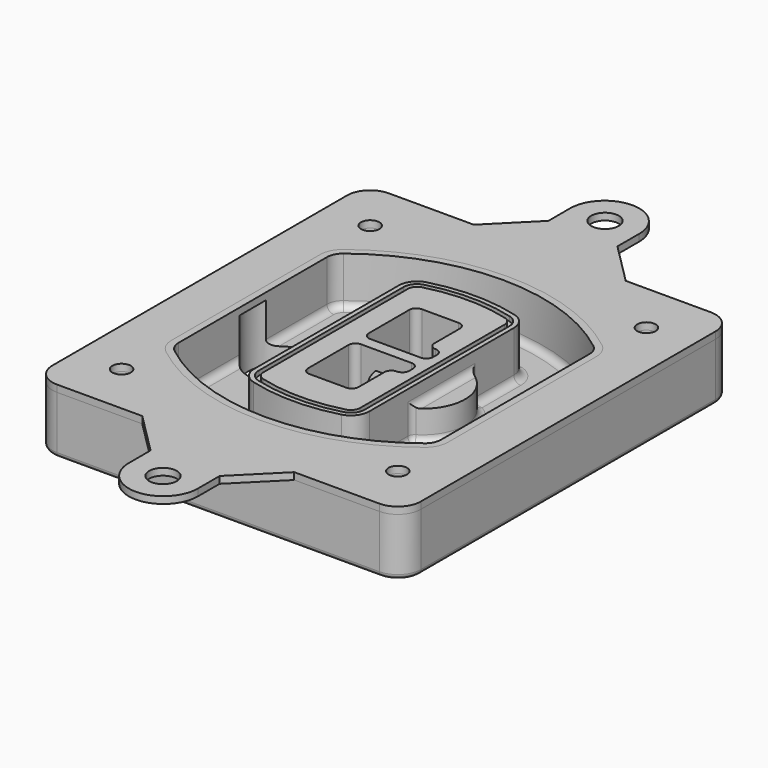
from build123d import *

# Parameters (mm, degrees)
F0_R      = 4
F1_DEPTH  = 25
F2_DEPTH  = 3
F3_DEPTH  = 18
F5_DEPTH  = 21
F6_DEPTH  = 2
F8_DEPTH  = 20
F9_DEPTH  = 16
F10_DEPTH = 25
F7_R      = 6
F7_R_2    = 4
F11_DEPTH = 6
F13_DEPTH = 9
F14_R     = 3
F15_R     = 2
F16_R     = 6
F16_R_2   = 4
F17_DEPTH = 3


with BuildPart() as f1:
    # F0 (on Top) → F1 (new body)
    with BuildSketch(Plane.XY):
        with BuildLine():
            ThreePointArc((-80, -80), (-77.0710678119, -87.0710678119), (-70, -90))
            Line((-70, -90), (70, -90))
            ThreePointArc((70, -90), (77.0710678119, -87.0710678119), (80, -80))
            Line((80, -80), (80, 80))
            ThreePointArc((80, 80), (77.0710678119, 87.0710678119), (70, 90))
            Line((70, 90), (-70, 90))
            ThreePointArc((-70, 90), (-77.0710678119, 87.0710678119), (-80, 80))
            Line((-80, 80), (-80, -80))
        make_face()
        with Locations((-60, -67.5)):
            Circle(F0_R, mode=Mode.SUBTRACT)
        with Locations((60, -67.5)):
            Circle(F0_R, mode=Mode.SUBTRACT)
        with Locations((-60, 67.5)):
            Circle(F0_R, mode=Mode.SUBTRACT)
        with BuildLine():
            ThreePointArc((-64, 40.2934422872), (-62.5820384798, 46.4328484224), (-58.6153846154, 51.3286200352))
            ThreePointArc((-58.6153846154, 51.3286200352), (0, 71.5), (58.6153846154, 51.3286200352))
            ThreePointArc((58.6153846154, 51.3286200352), (62.5820384798, 46.4328484224), (64, 40.2934422872))
            Line((64, 40.2934422872), (64, -40.2934422872))
            ThreePointArc((64, -40.2934422872), (62.5820384798, -46.4328484224), (58.6153846154, -51.3286200352))
            ThreePointArc((58.6153846154, -51.3286200352), (0, -71.5), (-58.6153846154, -51.3286200352))
            ThreePointArc((-58.6153846154, -51.3286200352), (-62.5820384798, -46.4328484224), (-64, -40.2934422872))
            Line((-64, -40.2934422872), (-64, 40.2934422872))
        make_face(mode=Mode.SUBTRACT)
        with Locations((60, 67.5)):
            Circle(F0_R, mode=Mode.SUBTRACT)
        with BuildLine():
            ThreePointArc((58.6153846154, 51.3286200352), (0, 71.5), (-58.6153846154, 51.3286200352))
            ThreePointArc((-58.6153846154, 51.3286200352), (-62.5820384798, 46.4328484224), (-64, 40.2934422872))
            Line((-64, 40.2934422872), (-64, -40.2934422872))
            ThreePointArc((-64, -40.2934422872), (-62.5820384798, -46.4328484224), (-58.6153846154, -51.3286200352))
            ThreePointArc((-58.6153846154, -51.3286200352), (0, -71.5), (58.6153846154, -51.3286200352))
            ThreePointArc((58.6153846154, -51.3286200352), (62.5820384798, -46.4328484224), (64, -40.2934422872))
            Line((64, -40.2934422872), (64, 40.2934422872))
            ThreePointArc((64, 40.2934422872), (62.5820384798, 46.4328484224), (58.6153846154, 51.3286200352))
        make_face()
        with BuildLine():
            Line((-60, -40.2934422872), (-60, 40.2934422872))
            ThreePointArc((-60, 40.2934422872), (-58.9871703427, 44.6787323838), (-56.1538461538, 48.1757121072))
            ThreePointArc((-56.1538461538, 48.1757121072), (0, 67.5), (56.1538461538, 48.1757121072))
            ThreePointArc((56.1538461538, 48.1757121072), (58.9871703427, 44.6787323838), (60, 40.2934422872))
            Line((60, 40.2934422872), (60, -40.2934422872))
            ThreePointArc((60, -40.2934422872), (58.9871703427, -44.6787323838), (56.1538461538, -48.1757121072))
            ThreePointArc((56.1538461538, -48.1757121072), (0, -67.5), (-56.1538461538, -48.1757121072))
            ThreePointArc((-56.1538461538, -48.1757121072), (-58.9871703427, -44.6787323838), (-60, -40.2934422872))
        make_face(mode=Mode.SUBTRACT)
        with BuildLine():
            ThreePointArc((-56.1538461538, 48.1757121072), (-58.9871703427, 44.6787323838), (-60, 40.2934422872))
            Line((-60, 40.2934422872), (-60, -40.2934422872))
            ThreePointArc((-60, -40.2934422872), (-58.9871703427, -44.6787323838), (-56.1538461538, -48.1757121072))
            ThreePointArc((-56.1538461538, -48.1757121072), (0, -67.5), (56.1538461538, -48.1757121072))
            ThreePointArc((56.1538461538, -48.1757121072), (58.9871703427, -44.6787323838), (60, -40.2934422872))
            Line((60, -40.2934422872), (60, 40.2934422872))
            ThreePointArc((60, 40.2934422872), (58.9871703427, 44.6787323838), (56.1538461538, 48.1757121072))
            ThreePointArc((56.1538461538, 48.1757121072), (0, 67.5), (-56.1538461538, 48.1757121072))
        make_face()
        with BuildLine():
            ThreePointArc((54.3076923077, 45.8110311612), (56.2910192399, 43.3631453548), (57, 40.2934422872))
            Line((57, 40.2934422872), (57, -40.2934422872))
            ThreePointArc((57, -40.2934422872), (56.2910192399, -43.3631453548), (54.3076923077, -45.8110311612))
            ThreePointArc((54.3076923077, -45.8110311612), (0, -64.5), (-54.3076923077, -45.8110311612))
            ThreePointArc((-54.3076923077, -45.8110311612), (-56.2910192399, -43.3631453548), (-57, -40.2934422872))
            Line((-57, -40.2934422872), (-57, 40.2934422872))
            ThreePointArc((-57, 40.2934422872), (-56.2910192399, 43.3631453548), (-54.3076923077, 45.8110311612))
            ThreePointArc((-54.3076923077, 45.8110311612), (0, 64.5), (54.3076923077, 45.8110311612))
        make_face(mode=Mode.SUBTRACT)
        with BuildLine():
            Line((57, -40.2934422872), (57, 40.2934422872))
            ThreePointArc((57, 40.2934422872), (56.2910192399, 43.3631453548), (54.3076923077, 45.8110311612))
            ThreePointArc((54.3076923077, 45.8110311612), (0, 64.5), (-54.3076923077, 45.8110311612))
            ThreePointArc((-54.3076923077, 45.8110311612), (-56.2910192399, 43.3631453548), (-57, 40.2934422872))
            Line((-57, 40.2934422872), (-57, -40.2934422872))
            ThreePointArc((-57, -40.2934422872), (-56.2910192399, -43.3631453548), (-54.3076923077, -45.8110311612))
            ThreePointArc((-54.3076923077, -45.8110311612), (0, -64.5), (54.3076923077, -45.8110311612))
            ThreePointArc((54.3076923077, -45.8110311612), (56.2910192399, -43.3631453548), (57, -40.2934422872))
        make_face()
    extrude(amount=-F1_DEPTH)

    # F0 (on Top) → F2 (join)
    with BuildSketch(Plane.XY):
        with BuildLine():
            ThreePointArc((-56.1538461538, 48.1757121072), (-58.9871703427, 44.6787323838), (-60, 40.2934422872))
            Line((-60, 40.2934422872), (-60, -40.2934422872))
            ThreePointArc((-60, -40.2934422872), (-58.9871703427, -44.6787323838), (-56.1538461538, -48.1757121072))
            ThreePointArc((-56.1538461538, -48.1757121072), (0, -67.5), (56.1538461538, -48.1757121072))
            ThreePointArc((56.1538461538, -48.1757121072), (58.9871703427, -44.6787323838), (60, -40.2934422872))
            Line((60, -40.2934422872), (60, 40.2934422872))
            ThreePointArc((60, 40.2934422872), (58.9871703427, 44.6787323838), (56.1538461538, 48.1757121072))
            ThreePointArc((56.1538461538, 48.1757121072), (0, 67.5), (-56.1538461538, 48.1757121072))
        make_face()
        with BuildLine():
            ThreePointArc((54.3076923077, 45.8110311612), (56.2910192399, 43.3631453548), (57, 40.2934422872))
            Line((57, 40.2934422872), (57, -40.2934422872))
            ThreePointArc((57, -40.2934422872), (56.2910192399, -43.3631453548), (54.3076923077, -45.8110311612))
            ThreePointArc((54.3076923077, -45.8110311612), (0, -64.5), (-54.3076923077, -45.8110311612))
            ThreePointArc((-54.3076923077, -45.8110311612), (-56.2910192399, -43.3631453548), (-57, -40.2934422872))
            Line((-57, -40.2934422872), (-57, 40.2934422872))
            ThreePointArc((-57, 40.2934422872), (-56.2910192399, 43.3631453548), (-54.3076923077, 45.8110311612))
            ThreePointArc((-54.3076923077, 45.8110311612), (0, 64.5), (54.3076923077, 45.8110311612))
        make_face(mode=Mode.SUBTRACT)
    extrude(amount=F2_DEPTH)

    # F0 (on Top) → F3 (cut)
    with BuildSketch(Plane.XY):
        with BuildLine():
            Line((57, -40.2934422872), (57, 40.2934422872))
            ThreePointArc((57, 40.2934422872), (56.2910192399, 43.3631453548), (54.3076923077, 45.8110311612))
            ThreePointArc((54.3076923077, 45.8110311612), (0, 64.5), (-54.3076923077, 45.8110311612))
            ThreePointArc((-54.3076923077, 45.8110311612), (-56.2910192399, 43.3631453548), (-57, 40.2934422872))
            Line((-57, 40.2934422872), (-57, -40.2934422872))
            ThreePointArc((-57, -40.2934422872), (-56.2910192399, -43.3631453548), (-54.3076923077, -45.8110311612))
            ThreePointArc((-54.3076923077, -45.8110311612), (0, -64.5), (54.3076923077, -45.8110311612))
            ThreePointArc((54.3076923077, -45.8110311612), (56.2910192399, -43.3631453548), (57, -40.2934422872))
        make_face()
    extrude(amount=-F3_DEPTH, mode=Mode.SUBTRACT)

    # F4 (on face) → F5 (join, through all)
    with BuildSketch(Plane.XY.offset(3)):
        with BuildLine():
            ThreePointArc((-25, -39.2465276821), (-23.3511545998, -44.1109737193), (-19.0842911877, -46.9702398883))
            ThreePointArc((-19.0842911877, -46.9702398883), (0, -49.5), (19.0842911877, -46.9702398883))
            ThreePointArc((19.0842911877, -46.9702398883), (23.3511545998, -44.1109737193), (25, -39.2465276821))
            Line((25, -39.2465276821), (25, 39.2465276821))
            ThreePointArc((25, 39.2465276821), (23.3511545998, 44.1109737193), (19.0842911877, 46.9702398883))
            ThreePointArc((19.0842911877, 46.9702398883), (0, 49.5), (-19.0842911877, 46.9702398883))
            ThreePointArc((-19.0842911877, 46.9702398883), (-23.3511545998, 44.1109737193), (-25, 39.2465276821))
            Line((-25, 39.2465276821), (-25, -39.2465276821))
        make_face()
        with BuildLine():
            ThreePointArc((18.5632183908, 45.0393118368), (21.7633659499, 42.89486221), (23, 39.2465276821))
            Line((23, 39.2465276821), (23, -39.2465276821))
            ThreePointArc((23, -39.2465276821), (21.7633659499, -42.89486221), (18.5632183908, -45.0393118368))
            ThreePointArc((18.5632183908, -45.0393118368), (0, -47.5), (-18.5632183908, -45.0393118368))
            ThreePointArc((-18.5632183908, -45.0393118368), (-21.7633659499, -42.89486221), (-23, -39.2465276821))
            Line((-23, -39.2465276821), (-23, 39.2465276821))
            ThreePointArc((-23, 39.2465276821), (-21.7633659499, 42.89486221), (-18.5632183908, 45.0393118368))
            ThreePointArc((-18.5632183908, 45.0393118368), (0, 47.5), (18.5632183908, 45.0393118368))
        make_face(mode=Mode.SUBTRACT)
        with BuildLine():
            Line((23, -39.2465276821), (23, 39.2465276821))
            ThreePointArc((23, 39.2465276821), (21.7633659499, 42.89486221), (18.5632183908, 45.0393118368))
            ThreePointArc((18.5632183908, 45.0393118368), (0, 47.5), (-18.5632183908, 45.0393118368))
            ThreePointArc((-18.5632183908, 45.0393118368), (-21.7633659499, 42.89486221), (-23, 39.2465276821))
            Line((-23, 39.2465276821), (-23, -39.2465276821))
            ThreePointArc((-23, -39.2465276821), (-21.7633659499, -42.89486221), (-18.5632183908, -45.0393118368))
            ThreePointArc((-18.5632183908, -45.0393118368), (0, -47.5), (18.5632183908, -45.0393118368))
            ThreePointArc((18.5632183908, -45.0393118368), (21.7633659499, -42.89486221), (23, -39.2465276821))
        make_face()
        with BuildLine():
            ThreePointArc((18.0421455939, 43.1083837852), (20.1755772999, 41.6787507007), (21, 39.2465276821))
            Line((21, 39.2465276821), (21, -39.2465276821))
            ThreePointArc((21, -39.2465276821), (20.1755772999, -41.6787507007), (18.0421455939, -43.1083837852))
            ThreePointArc((18.0421455939, -43.1083837852), (0, -45.5), (-18.0421455939, -43.1083837852))
            ThreePointArc((-18.0421455939, -43.1083837852), (-20.1755772999, -41.6787507007), (-21, -39.2465276821))
            Line((-21, -39.2465276821), (-21, 39.2465276821))
            ThreePointArc((-21, 39.2465276821), (-20.1755772999, 41.6787507007), (-18.0421455939, 43.1083837852))
            ThreePointArc((-18.0421455939, 43.1083837852), (0, 45.5), (18.0421455939, 43.1083837852))
        make_face(mode=Mode.SUBTRACT)
        with BuildLine():
            Line((21, -39.2465276821), (21, 39.2465276821))
            ThreePointArc((21, 39.2465276821), (20.1755772999, 41.6787507007), (18.0421455939, 43.1083837852))
            ThreePointArc((18.0421455939, 43.1083837852), (0, 45.5), (-18.0421455939, 43.1083837852))
            ThreePointArc((-18.0421455939, 43.1083837852), (-20.1755772999, 41.6787507007), (-21, 39.2465276821))
            Line((-21, 39.2465276821), (-21, -39.2465276821))
            ThreePointArc((-21, -39.2465276821), (-20.1755772999, -41.6787507007), (-18.0421455939, -43.1083837852))
            ThreePointArc((-18.0421455939, -43.1083837852), (0, -45.5), (18.0421455939, -43.1083837852))
            ThreePointArc((18.0421455939, -43.1083837852), (20.1755772999, -41.6787507007), (21, -39.2465276821))
        make_face()
        with BuildLine():
            Line((-8, -2.5), (14, -2.5))
            ThreePointArc((14, -2.5), (16.1213203436, -3.3786796564), (17, -5.5))
            Line((17, -5.5), (17, -7.5))
            ThreePointArc((17, -7.5), (16.1213203436, -9.6213203436), (14, -10.5))
            ThreePointArc((14, -10.5), (11.8786796564, -11.3786796564), (11, -13.5))
            Line((11, -13.5), (11, -27.5))
            ThreePointArc((11, -27.5), (10.1213203436, -29.6213203436), (8, -30.5))
            Line((8, -30.5), (-8, -30.5))
            ThreePointArc((-8, -30.5), (-10.1213203436, -29.6213203436), (-11, -27.5))
            Line((-11, -27.5), (-11, -5.5))
            ThreePointArc((-11, -5.5), (-10.1213203436, -3.3786796564), (-8, -2.5))
        make_face(mode=Mode.SUBTRACT)
        with BuildLine():
            ThreePointArc((-8, 2.5), (-10.1213203436, 3.3786796564), (-11, 5.5))
            Line((-11, 5.5), (-11, 27.5))
            ThreePointArc((-11, 27.5), (-10.1213203436, 29.6213203436), (-8, 30.5))
            Line((-8, 30.5), (8, 30.5))
            ThreePointArc((8, 30.5), (10.1213203436, 29.6213203436), (11, 27.5))
            Line((11, 27.5), (11, 13.5))
            ThreePointArc((11, 13.5), (11.8786796564, 11.3786796564), (14, 10.5))
            ThreePointArc((14, 10.5), (16.1213203436, 9.6213203436), (17, 7.5))
            Line((17, 7.5), (17, 5.5))
            ThreePointArc((17, 5.5), (16.1213203436, 3.3786796564), (14, 2.5))
            Line((14, 2.5), (-8, 2.5))
        make_face(mode=Mode.SUBTRACT)
    extrude(amount=-F5_DEPTH)

    # F4 (on face) → F6 (cut)
    with BuildSketch(Plane.XY.offset(3)):
        with BuildLine():
            Line((23, -39.2465276821), (23, 39.2465276821))
            ThreePointArc((23, 39.2465276821), (21.7633659499, 42.89486221), (18.5632183908, 45.0393118368))
            ThreePointArc((18.5632183908, 45.0393118368), (0, 47.5), (-18.5632183908, 45.0393118368))
            ThreePointArc((-18.5632183908, 45.0393118368), (-21.7633659499, 42.89486221), (-23, 39.2465276821))
            Line((-23, 39.2465276821), (-23, -39.2465276821))
            ThreePointArc((-23, -39.2465276821), (-21.7633659499, -42.89486221), (-18.5632183908, -45.0393118368))
            ThreePointArc((-18.5632183908, -45.0393118368), (0, -47.5), (18.5632183908, -45.0393118368))
            ThreePointArc((18.5632183908, -45.0393118368), (21.7633659499, -42.89486221), (23, -39.2465276821))
        make_face()
        with BuildLine():
            ThreePointArc((18.0421455939, 43.1083837852), (20.1755772999, 41.6787507007), (21, 39.2465276821))
            Line((21, 39.2465276821), (21, -39.2465276821))
            ThreePointArc((21, -39.2465276821), (20.1755772999, -41.6787507007), (18.0421455939, -43.1083837852))
            ThreePointArc((18.0421455939, -43.1083837852), (0, -45.5), (-18.0421455939, -43.1083837852))
            ThreePointArc((-18.0421455939, -43.1083837852), (-20.1755772999, -41.6787507007), (-21, -39.2465276821))
            Line((-21, -39.2465276821), (-21, 39.2465276821))
            ThreePointArc((-21, 39.2465276821), (-20.1755772999, 41.6787507007), (-18.0421455939, 43.1083837852))
            ThreePointArc((-18.0421455939, 43.1083837852), (0, 45.5), (18.0421455939, 43.1083837852))
        make_face(mode=Mode.SUBTRACT)
    extrude(amount=-F6_DEPTH, mode=Mode.SUBTRACT)

    # F7 (on face) → F8 (join)
    with BuildSketch(Plane(origin=(0, 0, -25), x_dir=(1, 0, 0), z_dir=(0, 0, -1))):
        with BuildLine():
            ThreePointArc((3.28842436, 0), (16.7567035675, 13.4682792075), (30.224982775, 0))
            Line((30.224982775, 0), (35.224982775, 0))
            ThreePointArc((35.224982775, 0), (16.7567035675, 18.4682792075), (-1.71157564, 0))
            Line((-1.71157564, 0), (3.28842436, 0))
        make_face()
        with BuildLine():
            Line((3.28842436, 0), (30.224982775, 0))
            ThreePointArc((30.224982775, 0), (16.7567035675, 13.4682792075), (3.28842436, 0))
        make_face()
        with BuildLine():
            ThreePointArc((3.28842436, 0), (16.7567035675, -13.4682792075), (30.224982775, 0))
            Line((30.224982775, 0), (3.28842436, 0))
        make_face()
        with BuildLine():
            Line((35.224982775, 0), (30.224982775, 0))
            ThreePointArc((30.224982775, 0), (16.7567035675, -13.4682792075), (3.28842436, 0))
            Line((3.28842436, 0), (-1.71157564, 0))
            ThreePointArc((-1.71157564, 0), (16.7567035675, -18.4682792075), (35.224982775, 0))
        make_face()
    extrude(amount=-F8_DEPTH)

    # F7 (on face) → F9 (cut)
    with BuildSketch(Plane(origin=(0, 0, -25), x_dir=(1, 0, 0), z_dir=(0, 0, -1))):
        with BuildLine():
            Line((3.28842436, 0), (30.224982775, 0))
            ThreePointArc((30.224982775, 0), (16.7567035675, 13.4682792075), (3.28842436, 0))
        make_face()
        with BuildLine():
            ThreePointArc((3.28842436, 0), (16.7567035675, -13.4682792075), (30.224982775, 0))
            Line((30.224982775, 0), (3.28842436, 0))
        make_face()
    extrude(amount=-F9_DEPTH, mode=Mode.SUBTRACT)

    # F7 (on face) → F10 (cut)
    with BuildSketch(Plane(origin=(0, 0, -25), x_dir=(1, 0, 0), z_dir=(0, 0, -1))):
        with BuildLine():
            Line((-59.0318229325, 0), (-32.0952645175, 0))
            ThreePointArc((-32.0952645175, 0), (-45.563543725, 13.4682792075), (-59.0318229325, 0))
        make_face()
        with BuildLine():
            ThreePointArc((-59.0318229325, 0), (-45.563543725, -13.4682792075), (-32.0952645175, 0))
            Line((-32.0952645175, 0), (-59.0318229325, 0))
        make_face()
    extrude(amount=-F10_DEPTH, mode=Mode.SUBTRACT)

    # F7 (on face) → F11 (cut)
    with BuildSketch(Plane(origin=(0, 0, -25), x_dir=(1, 0, 0), z_dir=(0, 0, -1))):
        with Locations((60, -67.5)):
            Circle(F7_R)
        with Locations((60, -67.5)):
            Circle(F7_R_2, mode=Mode.SUBTRACT)
        with Locations((60, -67.5)):
            Circle(F7_R)
        with Locations((60, -67.5)):
            Circle(F7_R_2, mode=Mode.SUBTRACT)
        with Locations((-60, -67.5)):
            Circle(F7_R)
        with Locations((-60, -67.5)):
            Circle(F7_R_2, mode=Mode.SUBTRACT)
        with Locations((-60, -67.5)):
            Circle(F7_R)
        with Locations((-60, -67.5)):
            Circle(F7_R_2, mode=Mode.SUBTRACT)
        with Locations((-60, 67.5)):
            Circle(F7_R)
        with Locations((-60, 67.5)):
            Circle(F7_R_2, mode=Mode.SUBTRACT)
        with Locations((-60, 67.5)):
            Circle(F7_R)
        with Locations((-60, 67.5)):
            Circle(F7_R_2, mode=Mode.SUBTRACT)
        with Locations((60, 67.5)):
            Circle(F7_R)
        with Locations((60, 67.5)):
            Circle(F7_R_2, mode=Mode.SUBTRACT)
        with Locations((60, 67.5)):
            Circle(F7_R)
        with Locations((60, 67.5)):
            Circle(F7_R_2, mode=Mode.SUBTRACT)
    extrude(amount=-F11_DEPTH, mode=Mode.SUBTRACT)

    # F12 (on face) → F13 (cut, through all)
    with BuildSketch(Plane(origin=(0, 0, -9), x_dir=(1, 0, 0), z_dir=(0, 0, -1))):
        with BuildLine():
            Line((11, 13.5), (11, 17.5481537753))
            ThreePointArc((11, 17.5481537753), (2.5696536419, 11.8239143813), (-1.5415842455, 2.5))
            Line((-1.5415842455, 2.5), (3.5224848595, 2.5))
            ThreePointArc((3.5224848595, 2.5), (6.1857188154, 8.3455872281), (11.2536447004, 12.2927168648))
            ThreePointArc((11.2536447004, 12.2927168648), (11.0640958889, 12.8831798879), (11, 13.5))
        make_face()
        with BuildLine():
            ThreePointArc((11.2536447004, -12.2927168648), (6.1857188154, -8.3455872281), (3.5224848595, -2.5))
            Line((3.5224848595, -2.5), (-1.5415842455, -2.5))
            ThreePointArc((-1.5415842455, -2.5), (2.5696536419, -11.8239143813), (11, -17.5481537753))
            Line((11, -17.5481537753), (11, -13.5))
            ThreePointArc((11, -13.5), (11.0640958889, -12.8831798879), (11.2536447004, -12.2927168648))
        make_face()
        with BuildLine():
            ThreePointArc((11.2536447004, 12.2927168648), (6.1857188154, 8.3455872281), (3.5224848595, 2.5))
            Line((3.5224848595, 2.5), (14, 2.5))
            ThreePointArc((14, 2.5), (16.1213203436, 3.3786796564), (17, 5.5))
            Line((17, 5.5), (17, 7.5))
            ThreePointArc((17, 7.5), (16.1213203436, 9.6213203436), (14, 10.5))
            ThreePointArc((14, 10.5), (12.3601599782, 10.9878446101), (11.2536447004, 12.2927168648))
        make_face()
        with BuildLine():
            Line((14, -2.5), (3.5224848595, -2.5))
            ThreePointArc((3.5224848595, -2.5), (6.1857188154, -8.3455872281), (11.2536447004, -12.2927168648))
            ThreePointArc((11.2536447004, -12.2927168648), (12.3601599782, -10.9878446101), (14, -10.5))
            ThreePointArc((14, -10.5), (16.1213203436, -9.6213203436), (17, -7.5))
            Line((17, -7.5), (17, -5.5))
            ThreePointArc((17, -5.5), (16.1213203436, -3.3786796564), (14, -2.5))
        make_face()
    extrude(amount=F13_DEPTH, mode=Mode.SUBTRACT)

    # F14
    f14_edges = [f1.edges().sort_by_distance(p)[0] for p in [
        (-57, -23.703476, -18),
        (-57, 23.703476, -18),
        (25, 0, -5),
        (25, 16.526506, -11.5),
        (25, -16.526506, -11.5),
        (25, -27.886517, -18),
        (35.224983, 0, -18),
    ]]
    fillet(f14_edges, radius=F14_R)

    # F15
    f15_edges = [f1.edges().sort_by_distance(p)[0] for p in [
        (0, -90, -25),
    ]]
    fillet(f15_edges, radius=F15_R)


with BuildPart() as f17:
    # F16 (on face) → F17 (new body, through all)
    with BuildSketch(Plane.XY):
        with BuildLine():
            Line((-15, 119.8110447526), (-15, 108))
            Line((-15, 108), (-33, 90))
            Line((-33, 90), (33, 90))
            Line((33, 90), (15, 108))
            Line((15, 108), (15, 119.8110447526))
            ThreePointArc((15, 119.8110447526), (0, 134.8110447526), (-15, 119.8110447526))
        make_face()
        with Locations((0, 120)):
            Circle(F16_R, mode=Mode.SUBTRACT)
        with BuildLine():
            Line((33, 90), (-33, 90))
            Line((-33, 90), (-70, 90))
            ThreePointArc((-70, 90), (-77.0710678119, 87.0710678119), (-80, 80))
            Line((-80, 80), (-80, -80))
            ThreePointArc((-80, -80), (-77.0710678119, -87.0710678119), (-70, -90))
            Line((-70, -90), (-33, -90))
            Line((-33, -90), (33, -90))
            Line((33, -90), (70, -90))
            ThreePointArc((70, -90), (77.0710678119, -87.0710678119), (80, -80))
            Line((80, -80), (80, 80))
            ThreePointArc((80, 80), (77.0710678119, 87.0710678119), (70, 90))
            Line((70, 90), (33, 90))
        make_face()
        with Locations((-60, -67.5)):
            Circle(F16_R_2, mode=Mode.SUBTRACT)
        with Locations((60, -67.5)):
            Circle(F16_R_2, mode=Mode.SUBTRACT)
        with Locations((-60, 67.5)):
            Circle(F16_R_2, mode=Mode.SUBTRACT)
        with BuildLine():
            ThreePointArc((-60, 40.2934422872), (-58.9871703427, 44.6787323838), (-56.1538461538, 48.1757121072))
            ThreePointArc((-56.1538461538, 48.1757121072), (0, 67.5), (56.1538461538, 48.1757121072))
            ThreePointArc((56.1538461538, 48.1757121072), (58.9871703427, 44.6787323838), (60, 40.2934422872))
            Line((60, 40.2934422872), (60, -40.2934422872))
            ThreePointArc((60, -40.2934422872), (58.9871703427, -44.6787323838), (56.1538461538, -48.1757121072))
            ThreePointArc((56.1538461538, -48.1757121072), (0, -67.5), (-56.1538461538, -48.1757121072))
            ThreePointArc((-56.1538461538, -48.1757121072), (-58.9871703427, -44.6787323838), (-60, -40.2934422872))
            Line((-60, -40.2934422872), (-60, 40.2934422872))
        make_face(mode=Mode.SUBTRACT)
        with Locations((60, 67.5)):
            Circle(F16_R_2, mode=Mode.SUBTRACT)
        with BuildLine():
            Line((33, -90), (-33, -90))
            Line((-33, -90), (-15, -108))
            Line((-15, -108), (-15, -119.8110447526))
            ThreePointArc((-15, -119.8110447526), (0, -134.8110447526), (15, -119.8110447526))
            Line((15, -119.8110447526), (15, -108))
            Line((15, -108), (33, -90))
        make_face()
        with Locations((0, -120)):
            Circle(F16_R, mode=Mode.SUBTRACT)
    extrude(amount=F17_DEPTH)


solid = Compound([f1.part, f17.part])
